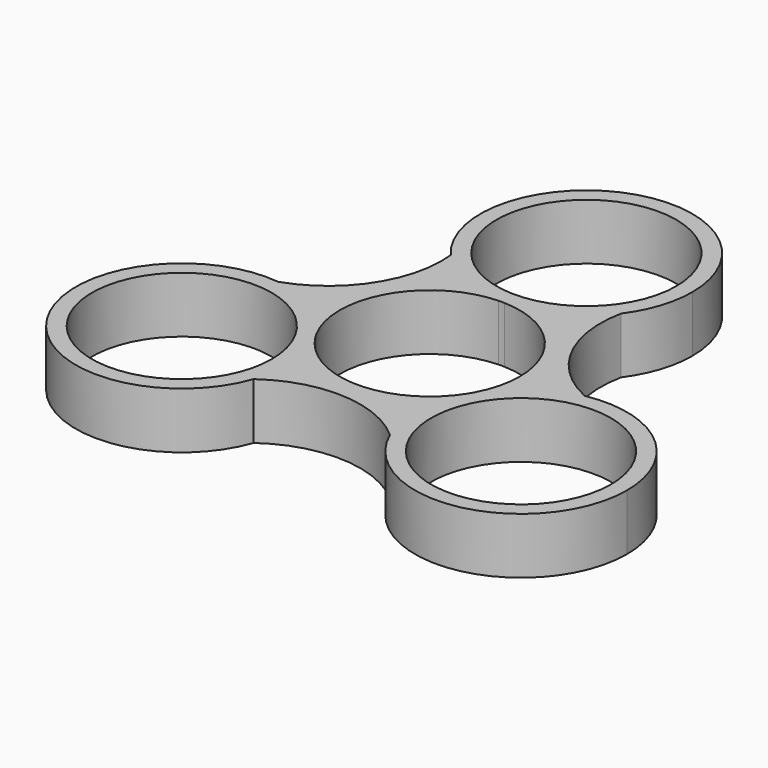
from build123d import *

# Parameters (mm, degrees)
F0_R     = 11.2
F1_DEPTH = 7


with BuildPart() as f1:
    # F0 (on Top) → F1 (new body)
    with BuildSketch(Plane.XY):
        with BuildLine():
            ThreePointArc((-0.3598518741, 11.1942175532), (0, 11.2), (0.3598518741, 11.1942175532))
            ThreePointArc((0.3598518741, 11.1942175532), (6.0989627362, 12.6827897516), (10.6075966415, 16.5331742759))
            ThreePointArc((10.6075966415, 16.5331742759), (12.5351560754, 20.2529046746), (13.2, 24.3893115896))
            ThreePointArc((13.2, 24.3893115896), (-4.5834929689, 36.7679864865), (-10.0169079098, 15.7927101723))
            ThreePointArc((-10.0169079098, 15.7927101723), (-5.6750171361, 12.4715022059), (-0.3598518741, 11.1942175532))
        make_face()
        with Locations((0, 24.3893115896)):
            Circle(F0_R, mode=Mode.SUBTRACT)
        with BuildLine():
            ThreePointArc((18.6853421587, 0.7785416311), (13.6381463018, -1.3210420962), (9.8744027136, -5.285467912))
            ThreePointArc((9.8744027136, -5.285467912), (9.6994845224, -5.6), (9.5145508395, -5.9087496412))
            ThreePointArc((9.5145508395, -5.9087496412), (7.9341367477, -11.6232515421), (9.0143506074, -17.4530353026))
            ThreePointArc((9.0143506074, -17.4530353026), (23.8071079863, -25.1186228539), (34.3217634174, -12.1946557948))
            ThreePointArc((34.3217634174, -12.1946557948), (29.5502638589, -2.0358969972), (18.6853421587, 0.7785416311))
        make_face()
        with Locations((21.1217634174, -12.1946557948)):
            Circle(F0_R, mode=Mode.SUBTRACT)
        with BuildLine():
            ThreePointArc((-9.5145508395, -5.9087496412), (-9.6994845224, -5.6), (-9.8744027136, -5.285467912))
            ThreePointArc((-9.8744027136, -5.285467912), (-14.0330994839, -1.0595382095), (-19.6219472489, 0.9198610267))
            ThreePointArc((-19.6219472489, 0.9198610267), (-32.3091368002, -19.200558791), (-8.668434249, -16.5712518034))
            ThreePointArc((-8.668434249, -16.5712518034), (-8.109770007, -14.4145718942), (-7.9217634174, -12.1946557948))
            ThreePointArc((-7.9217634174, -12.1946557948), (-8.3261546779, -8.9523731134), (-9.5145508395, -5.9087496412))
        make_face()
        with Locations((-21.1217634174, -12.1946557948)):
            Circle(F0_R, mode=Mode.SUBTRACT)
        with BuildLine():
            ThreePointArc((-9.8744027136, -5.285467912), (-9.6994845224, 5.6), (-0.3598518741, 11.1942175532))
            ThreePointArc((-0.3598518741, 11.1942175532), (-5.6750171361, 12.4715022059), (-10.0169079098, 15.7927101723))
            ThreePointArc((-10.0169079098, 15.7927101723), (-12.2051452607, 6.6679551211), (-19.6219472489, 0.9198610267))
            ThreePointArc((-19.6219472489, 0.9198610267), (-14.0330994839, -1.0595382095), (-9.8744027136, -5.285467912))
        make_face()
        with BuildLine():
            ThreePointArc((0.3598518741, 11.1942175532), (8.0458169564, 7.7913304066), (11.2, 0))
            ThreePointArc((11.2, 0), (10.8635470817, -2.7245815832), (9.8744027136, -5.285467912))
            ThreePointArc((9.8744027136, -5.285467912), (13.6381463018, -1.3210420962), (18.6853421587, 0.7785416311))
            ThreePointArc((18.6853421587, 0.7785416311), (11.8771911565, 7.2359882921), (10.6075966415, 16.5331742759))
            ThreePointArc((10.6075966415, 16.5331742759), (6.0989627362, 12.6827897516), (0.3598518741, 11.1942175532))
        make_face()
        with BuildLine():
            ThreePointArc((9.0143506074, -17.4530353026), (7.9341367477, -11.6232515421), (9.5145508395, -5.9087496412))
            ThreePointArc((9.5145508395, -5.9087496412), (0, -11.2), (-9.5145508395, -5.9087496412))
            ThreePointArc((-9.5145508395, -5.9087496412), (-8.3261546779, -8.9523731134), (-7.9217634174, -12.1946557948))
            ThreePointArc((-7.9217634174, -12.1946557948), (-8.109770007, -14.4145718942), (-8.668434249, -16.5712518034))
            ThreePointArc((-8.668434249, -16.5712518034), (0.3279541042, -13.9039434132), (9.0143506074, -17.4530353026))
        make_face()
    extrude(amount=F1_DEPTH)


solid = f1.part
